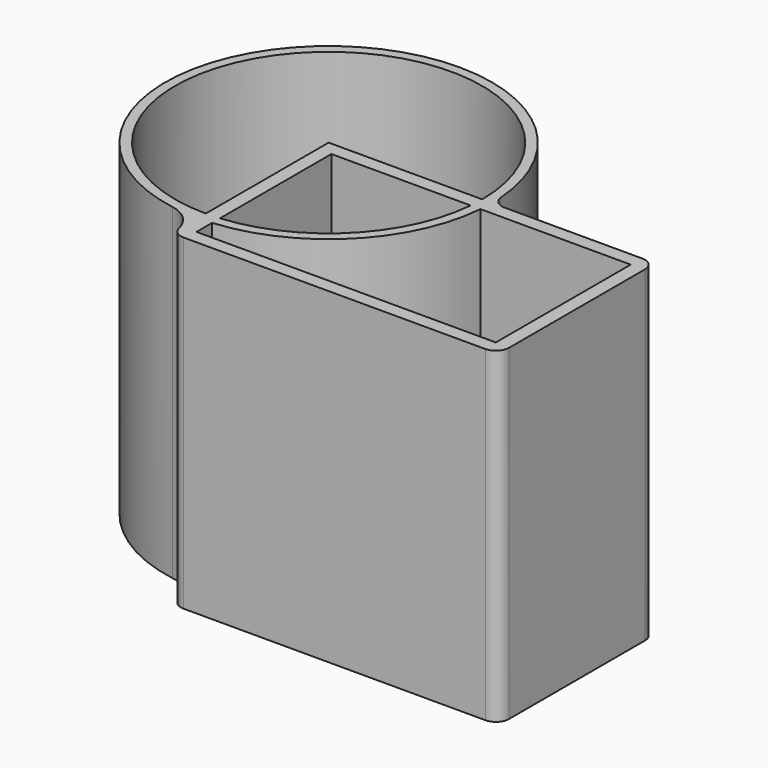
from build123d import *

# Parameters (mm, degrees)
F0_R     = 63.5
F0_R_2   = 59.69
F1_DEPTH = 127
F2_W     = 127
F2_H     = 76.2
F2_W_2   = 116.3319997936
F2_H_2   = 65.5319997936
F3_DEPTH = 127
F4_R     = 12.7
F5_R     = 5.08
F6_R     = 5.08
F7_R     = 5.08
F8_R     = 5.08


with BuildPart() as f1:
    # F0 (on Top) → F1 (new body)
    with BuildSketch(Plane.XY):
        Circle(F0_R)
        Circle(F0_R_2, mode=Mode.SUBTRACT)
    extrude(amount=F1_DEPTH)

    # F2 (on Top) → F3 (join)
    with BuildSketch(Plane.XY):
        with Locations((63.5, -38.1)):
            Rectangle(F2_W, F2_H)
        with Locations((63.5, -38.1)):
            Rectangle(F2_W_2, F2_H_2, mode=Mode.SUBTRACT)
    extrude(amount=F3_DEPTH)

    # F4
    f4_edges = [f1.edges().sort_by_distance(p)[0] for p in [
        (0, -63.5, 63.5),
    ]]
    fillet(f4_edges, radius=F4_R)

    # F5
    f5_edges = [f1.edges().sort_by_distance(p)[0] for p in [
        (63.5, 0, 63.5),
    ]]
    fillet(f5_edges, radius=F5_R)

    # F6
    f6_edges = [f1.edges().sort_by_distance(p)[0] for p in [
        (127, 0, 63.5),
    ]]
    fillet(f6_edges, radius=F6_R)

    # F7
    f7_edges = [f1.edges().sort_by_distance(p)[0] for p in [
        (127, -76.2, 63.5),
    ]]
    fillet(f7_edges, radius=F7_R)

    # F8
    f8_edges = [f1.edges().sort_by_distance(p)[0] for p in [
        (0, -76.2, 63.5),
    ]]
    fillet(f8_edges, radius=F8_R)


solid = f1.part
